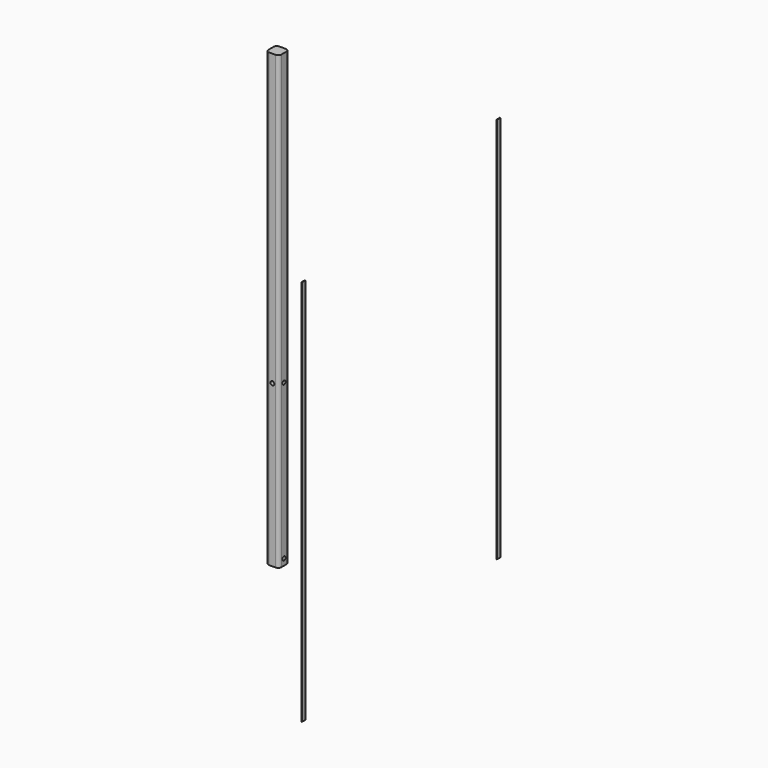
from build123d import *

# Parameters (mm, degrees)
F1_DEPTH  = 889
F2_W      = 8.46582
F2_H      = 762
F3_DEPTH  = 1.27
F4_W      = 8.46582
F4_H      = 762
F5_DEPTH  = 1.27
F6_R      = 3.81
F7_DEPTH  = 25.4
F10_DEPTH = 25.4


with BuildPart() as f1:
    # F0 (on Top) → F1 (new body)
    with BuildSketch(Plane.XY):
        with BuildLine():
            ThreePointArc((12.7, 6.35), (10.840128, 10.840128), (6.35, 12.7))
            Line((6.35, 12.7), (-6.35, 12.7))
            ThreePointArc((-6.35, 12.7), (-10.840128, 10.840128), (-12.7, 6.35))
            Line((-12.7, 6.35), (-12.7, -6.35))
            ThreePointArc((-12.7, -6.35), (-10.840128, -10.840128), (-6.35, -12.7))
            Line((-6.35, -12.7), (6.35, -12.7))
            ThreePointArc((6.35, -12.7), (10.840128, -10.840128), (12.7, -6.35))
            Line((12.7, -6.35), (12.7, 6.35))
        make_face()
    extrude(amount=F1_DEPTH)

    # F6 (on face) → F7 (cut)
    with BuildSketch(Plane.YZ.offset(12.7)):
        with Locations((0, 12.7)):
            Circle(F6_R)
        with Locations((0, 317.5)):
            Circle(F6_R)
    extrude(amount=-F7_DEPTH, mode=Mode.SUBTRACT)

    # F9 (on face) → F10 (cut)
    with BuildSketch(Plane.XZ.offset(12.7)):
        with BuildLine():
            ThreePointArc((3.81, 317.5), (-2.694077, 320.194077), (0, 313.69))
            ThreePointArc((0, 313.69), (2.694077, 314.805923), (3.81, 317.5))
        make_face()
    extrude(amount=-F10_DEPTH, mode=Mode.SUBTRACT)


with BuildPart() as f3:
    # F2 (on Right) → F3 (new body)
    with BuildSketch(Plane.YZ):
        with Locations((-254.764381, 294.385428)):
            Rectangle(F2_W, F2_H)
    extrude(amount=F3_DEPTH)


with BuildPart() as f5:
    # F4 (on Right) → F5 (new body)
    with BuildSketch(Plane.YZ):
        with Locations((225.521233, 381)):
            Rectangle(F4_W, F4_H)
    extrude(amount=F5_DEPTH)


with BuildPart() as f3_1:
    # F8: moved
    add(f3.part.moved(Location((254, 0, 0))))


with BuildPart() as f5_1:
    # F8: moved
    add(f5.part.moved(Location((254, 0, 0))))


solid = Compound([f1.part, f3_1.part, f5_1.part])
